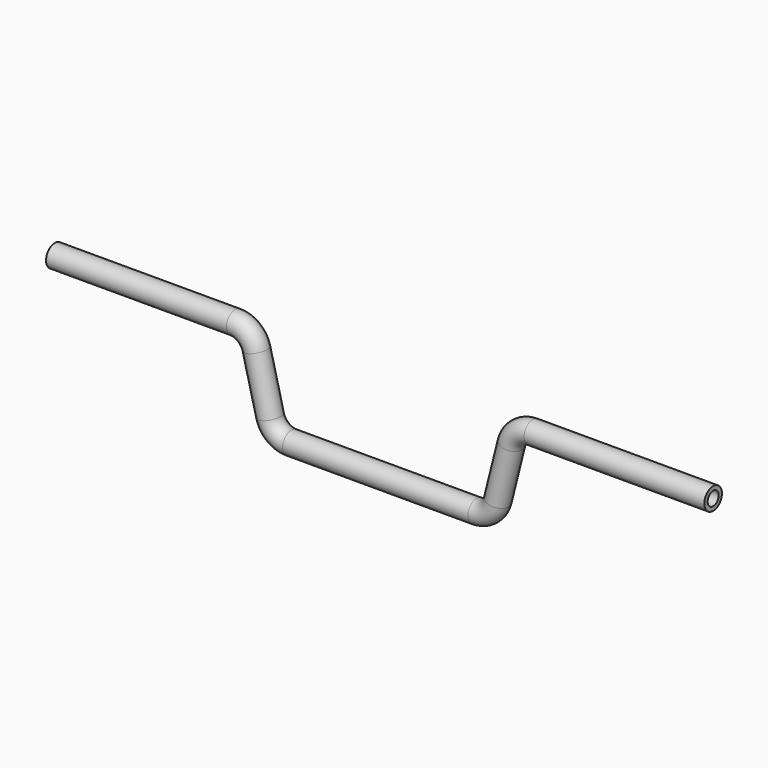
from build123d import *

# Parameters (mm, degrees)
F2_R   = 12.7
F2_R_2 = 7.9375


with BuildPart() as f3:
    # F3: sweep along a path in F0
    with BuildLine(Plane.XZ) as f3_path:
        Line((381, 0), (172.2317207227, 0))
        ThreePointArc((172.2317207227, 0), (156.6002506038, -5.3795818744), (147.590101219, -19.2395951241))
        Line((147.590101219, -19.2395951241), (131.809898781, -82.3604048759))
        ThreePointArc((131.809898781, -82.3604048759), (122.7997493962, -96.2204181256), (107.1682792773, -101.6))
        Line((107.1682792773, -101.6), (-107.1682792773, -101.6))
        ThreePointArc((-107.1682792773, -101.6), (-122.7997493962, -96.2204181256), (-131.809898781, -82.3604048759))
        Line((-131.809898781, -82.3604048759), (-147.590101219, -19.2395951241))
        ThreePointArc((-147.590101219, -19.2395951241), (-156.6002506038, -5.3795818744), (-172.2317207227, 0))
        Line((-172.2317207227, 0), (-381, 0))
    # F2 (on offset) → F3 (sweep)
    with BuildSketch(Plane.YZ.offset(381)):
        Circle(F2_R)
        Circle(F2_R_2, mode=Mode.SUBTRACT)
    sweep(path=f3_path.line)


solid = f3.part
